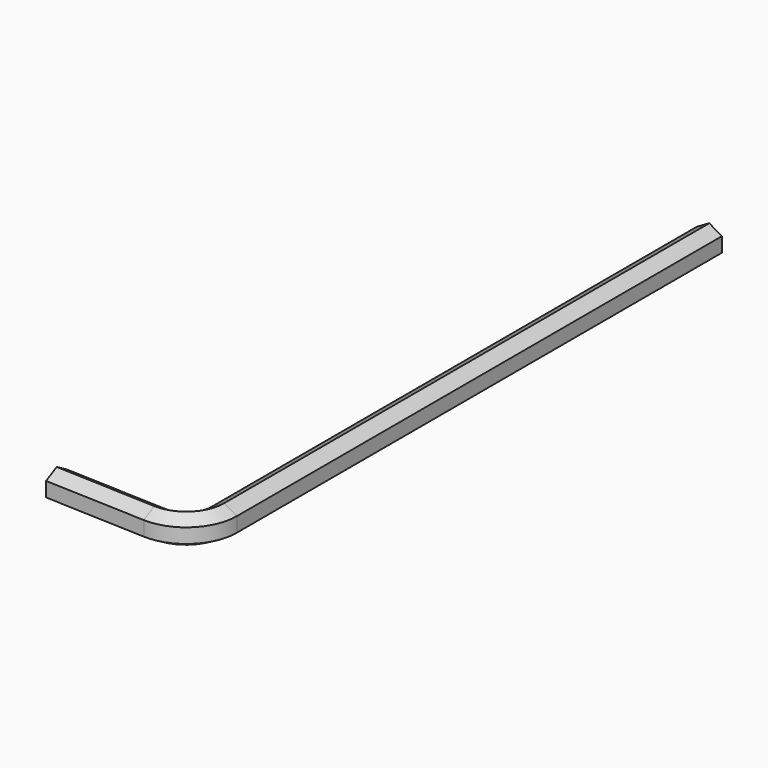
from build123d import *

# Parameters (mm, degrees)
F1_DEPTH = 152.4
F3_ANGLE = 92.3138340894
F4_DEPTH = 25.4


with BuildPart() as f1:
    # F0 (on Front) → F1 (new body)
    with BuildSketch(Plane.XZ):
        Polygon((3.175, -1.8330871047), (3.175, 1.8330871047), (0, 3.6661742094), (-3.175, 1.8330871047), (-3.175, -1.8330871047), (0, -3.6661742094), align=None)
    extrude(amount=F1_DEPTH)

    # F2 (on face) → F3 (revolve)
    with BuildSketch(Plane.XZ.offset(152.4)):
        Polygon((-3.175, 1.8330871047), (-3.175, -1.8330871047), (0, -3.6661742094), (3.175, -1.8330871047), (3.175, 1.8330871047), (0, 3.6661742094), align=None)
    revolve(axis=Axis((-9.525, -152.4, 0.9165435523), (0, 0, -1)), revolution_arc=F3_ANGLE)

    # F4 (add): a face of the model
    f4_faces = [f1.faces().sort_by_distance(p)[0] for p in [
        (-9.9095532751, -161.9172340403, 0),
    ]]
    extrude(f4_faces, amount=F4_DEPTH)


solid = f1.part
